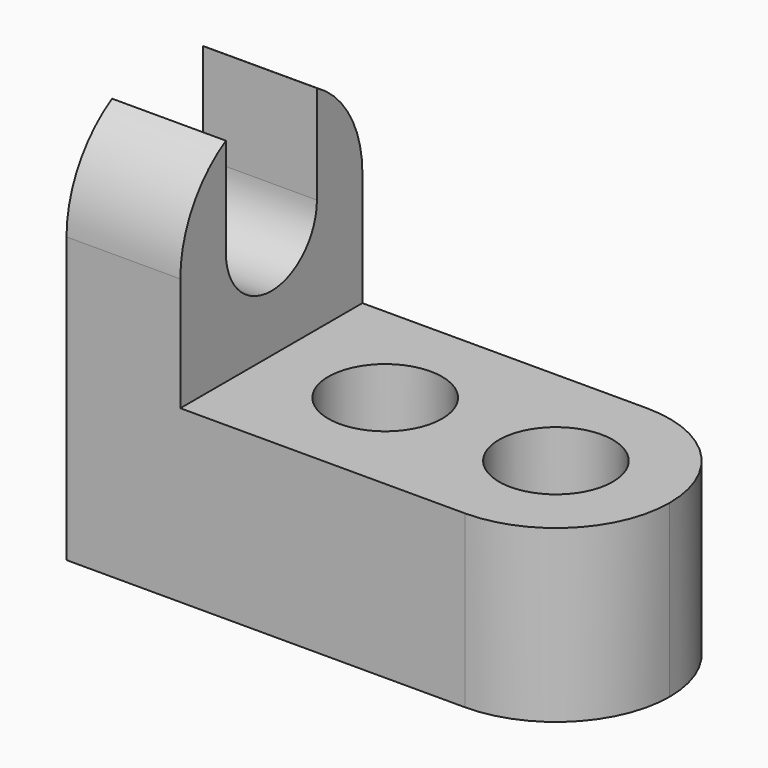
from build123d import *

# Parameters (mm, degrees)
F1_DEPTH = 25.4
F2_R     = 6.35
F3_DEPTH = 25.4
F5_DEPTH = 25.4


with BuildPart() as f1:
    # F0 (on Front) → F1 (new body)
    with BuildSketch(Plane.XZ):
        Polygon((0, 44.45), (0, 0), (57.15, 0), (57.15, 19.05), (12.7, 19.05), (12.7, 44.45), align=None)
    extrude(amount=F1_DEPTH)

    # F2 (on face) → F3 (cut)
    with BuildSketch(Plane.XY.offset(19.05)):
        with Locations((25.4, -12.7)):
            Circle(F2_R)
        with Locations((44.45, -12.7)):
            Circle(F2_R)
        with BuildLine():
            ThreePointArc((44.45, 0), (53.4302561211, -3.7197438789), (57.15, -12.7))
            Line((57.15, -12.7), (57.15, 0))
            Line((57.15, 0), (44.45, 0))
        make_face()
        with BuildLine():
            ThreePointArc((57.15, -12.7), (53.4302561211, -21.6802561211), (44.45, -25.4))
            Line((44.45, -25.4), (57.15, -25.4))
            Line((57.15, -25.4), (57.15, -12.7))
        make_face()
    extrude(amount=-F3_DEPTH, mode=Mode.SUBTRACT)

    # F4 (on face) → F5 (cut)
    with BuildSketch(Plane.YZ.offset(12.7)):
        with BuildLine():
            ThreePointArc((-19.05, 31.75), (-12.7, 25.4), (-6.35, 31.75))
            ThreePointArc((-6.35, 31.75), (-12.7, 38.1), (-19.05, 31.75))
        make_face()
        with BuildLine():
            ThreePointArc((-19.05, 31.75), (-12.7, 38.1), (-6.35, 31.75))
            Line((-6.35, 31.75), (-6.35, 42.7485226281))
            ThreePointArc((-6.35, 42.7485226281), (-9.4129981272, 44.0172579939), (-12.7, 44.45))
            ThreePointArc((-12.7, 44.45), (-15.9870018728, 44.0172579939), (-19.05, 42.7485226281))
            Line((-19.05, 42.7485226281), (-19.05, 31.75))
        make_face()
        with BuildLine():
            Line((-19.05, 44.45), (-19.05, 42.7485226281))
            ThreePointArc((-19.05, 42.7485226281), (-15.9870018728, 44.0172579939), (-12.7, 44.45))
            Line((-12.7, 44.45), (-19.05, 44.45))
        make_face()
        with BuildLine():
            ThreePointArc((-25.4, 31.75), (-23.6985226281, 38.1), (-19.05, 42.7485226281))
            Line((-19.05, 42.7485226281), (-19.05, 44.45))
            Line((-19.05, 44.45), (-25.4, 44.45))
            Line((-25.4, 44.45), (-25.4, 31.75))
        make_face()
        with BuildLine():
            Line((-6.35, 44.45), (-6.35, 42.7485226281))
            ThreePointArc((-6.35, 42.7485226281), (-1.7014773719, 38.1), (0, 31.75))
            Line((0, 31.75), (0, 44.45))
            Line((0, 44.45), (-6.35, 44.45))
        make_face()
        with BuildLine():
            ThreePointArc((-12.7, 44.45), (-9.4129981272, 44.0172579939), (-6.35, 42.7485226281))
            Line((-6.35, 42.7485226281), (-6.35, 44.45))
            Line((-6.35, 44.45), (-12.7, 44.45))
        make_face()
        with BuildLine():
            ThreePointArc((-19.05, 31.75), (-12.7, 38.1), (-6.35, 31.75))
            Line((-6.35, 31.75), (-6.35, 42.7485226281))
            ThreePointArc((-6.35, 42.7485226281), (-9.4129981272, 44.0172579939), (-12.7, 44.45))
            ThreePointArc((-12.7, 44.45), (-15.9870018728, 44.0172579939), (-19.05, 42.7485226281))
            Line((-19.05, 42.7485226281), (-19.05, 31.75))
        make_face()
    extrude(amount=-F5_DEPTH, mode=Mode.SUBTRACT)


solid = f1.part
